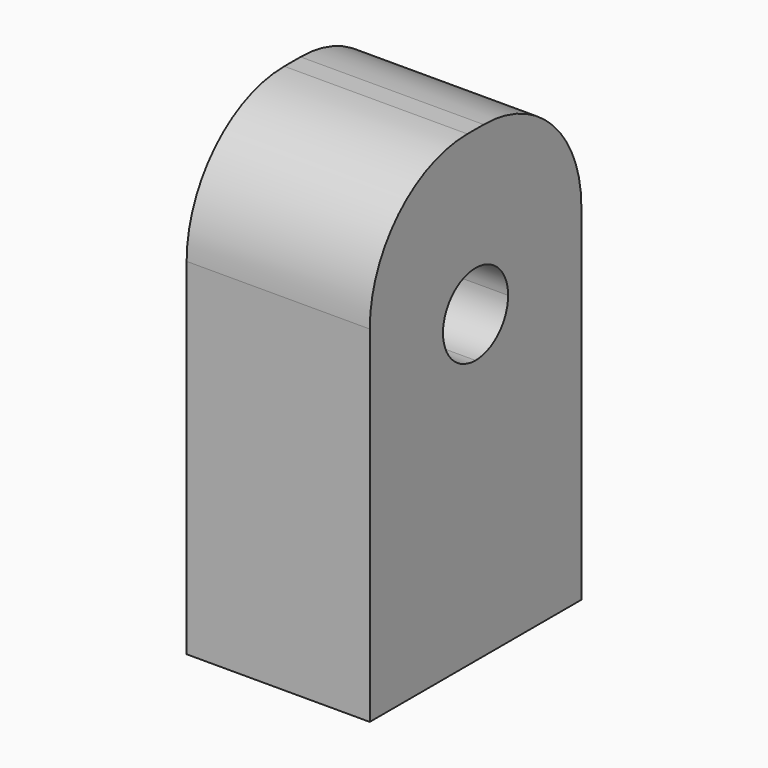
from build123d import *

# Parameters (mm, degrees)
F0_W     = 13
F0_H     = 23
F1_DEPTH = 9
F2_R     = 6
F4_DEPTH = 9.001
F6_D     = 6.6
F6_DEPTH = 8
F6_TIP   = 1.9828400428


with BuildPart() as f1:
    # F0 (on Right) → F1 (new body)
    with BuildSketch(Plane.YZ):
        with Locations((3.3005997539, 1.423231575)):
            Rectangle(F0_W, F0_H)
    extrude(amount=F1_DEPTH)

    # F2
    f2_edges = [f1.edges().sort_by_distance(p)[0] for p in [
        (4.5, -3.1994, 12.923232),
        (4.5, 9.8006, 12.923232),
    ]]
    fillet(f2_edges, radius=F2_R)

    # F3 (on face) → F4 (cut, through all)
    with BuildSketch(Plane.YZ.offset(9)):
        with BuildLine():
            ThreePointArc((5.3005997539, 4.923231575), (4.7148133162, 6.3374451374), (3.3005997539, 6.923231575))
            Line((3.3005997539, 6.923231575), (3.3005997539, 2.923231575))
            ThreePointArc((3.3005997539, 2.923231575), (4.7148133162, 3.5090180127), (5.3005997539, 4.923231575))
        make_face()
        with BuildLine():
            Line((3.3005997539, 2.923231575), (3.3005997539, 6.923231575))
            ThreePointArc((3.3005997539, 6.923231575), (1.3005997539, 4.923231575), (3.3005997539, 2.923231575))
        make_face()
    extrude(amount=-F4_DEPTH, mode=Mode.SUBTRACT)

    # F6
    with Locations(Plane(origin=(0, 0, -10.076768425), x_dir=(1, 0, 0), z_dir=(0, 0, -1))):
        with Locations((4.5, -3.3005997539)):
            Hole(F6_D / 2, depth=F6_DEPTH)
            with Locations((0, 0, -(F6_DEPTH + F6_TIP / 2))):  # 118° drill point
                Cone(0, F6_D / 2, F6_TIP, mode=Mode.SUBTRACT)


solid = f1.part
